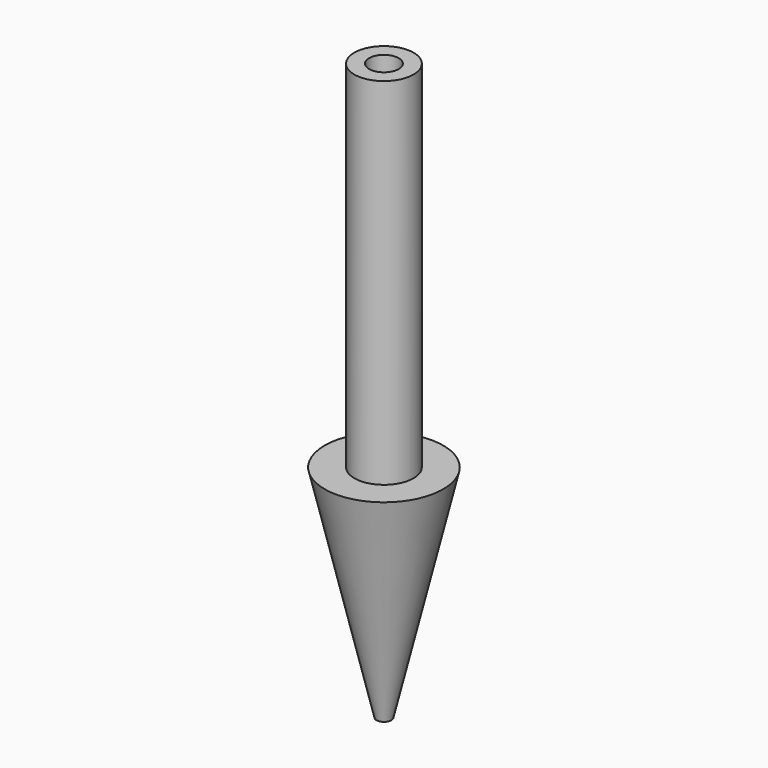
from build123d import *

# Parameters (mm, degrees)
F2_R     = 1.5875
F3_DEPTH = 130.176
F4_R     = 3.175
F5_DEPTH = 25.4


with BuildPart() as f1:
    # F0 (on Front) → F1 (revolve)
    with BuildSketch(Plane.XZ):
        Polygon((0, -53.975), (0, 0), (0, 76.2), (-6.35, 76.2), (-6.35, 0), (-12.7, 0), align=None)
    revolve(axis=Axis((0, 0, 38.1), (0, 0, -1)))

    # F2 (on face) → F3 (cut, through all)
    with BuildSketch(Plane.XY.offset(76.2)):
        Circle(F2_R)
    extrude(amount=-F3_DEPTH, mode=Mode.SUBTRACT)

    # F4 (on face) → F5 (cut)
    with BuildSketch(Plane.XY.offset(76.2)):
        Circle(F4_R)
    extrude(amount=-F5_DEPTH, mode=Mode.SUBTRACT)


solid = f1.part
